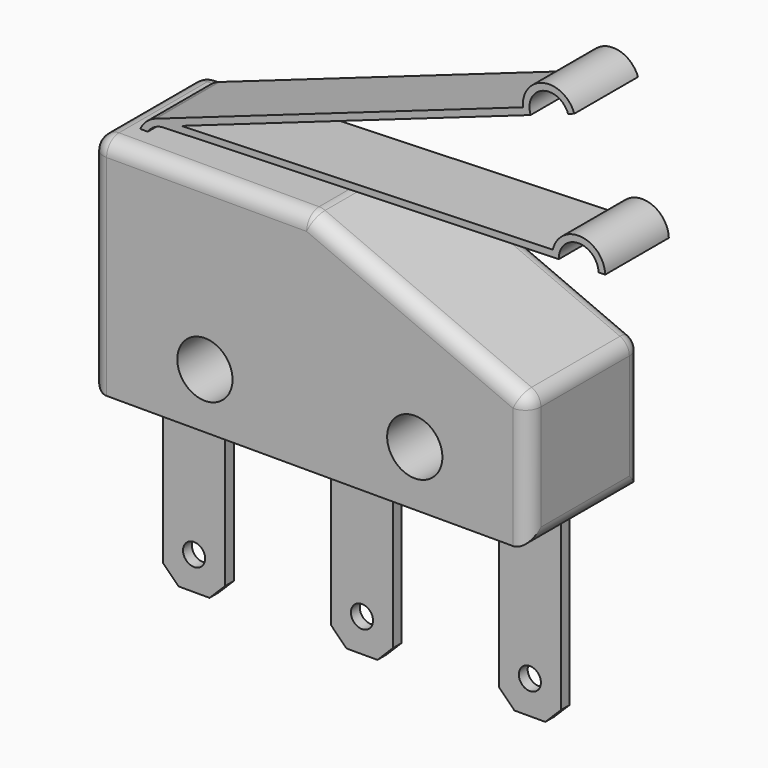
from build123d import *

# Parameters (mm, degrees)
F0_R     = 1.25
F1_DEPTH = 3.2
F2_R     = 0.7
F4_DEPTH = 1.8
F5_W     = 2.8
F5_H     = 9.0560415828
F5_R     = 0.5
F6_DEPTH = 0.25
F7_SIZE  = 0.7
F9_DEPTH = 3.6


with BuildPart() as f1:
    # F0 (on Front) → F1 (new body, symmetric)
    with BuildSketch(Plane.XZ):
        Polygon((-14.2658203304, 13.9623457611), (-24.1658203304, 13.9623457611), (-24.1658203304, 3.7623457611), (-4.3658203304, 3.7623457611), (-4.3658203304, 9.7123457611), align=None)
        with Locations((-19.0158203304, 6.2623457611)):
            Circle(F0_R, mode=Mode.SUBTRACT)
        with Locations((-9.5158203304, 6.2623457611)):
            Circle(F0_R, mode=Mode.SUBTRACT)
    extrude(amount=F1_DEPTH, both=True)

    # F2
    f2_edges = [f1.edges().sort_by_distance(p)[0] for p in [
        (-4.36582, 0, 9.712346),
        (-14.26582, 0, 13.962346),
        (-24.16582, 0, 13.962346),
        (-4.36582, 0, 3.762346),
        (-24.16582, 0, 3.762346),
        (-19.21582, -3.2, 13.962346),
        (-9.31582, -3.2, 11.837346),
        (-4.36582, -3.2, 6.737346),
        (-4.36582, 3.2, 6.737346),
        (-9.31582, 3.2, 11.837346),
        (-19.21582, 3.2, 13.962346),
        (-24.16582, -3.2, 8.862346),
        (-24.16582, 3.2, 8.862346),
    ]]
    fillet(f2_edges, radius=F2_R)

    # F3 (on Front) → F4 (join, symmetric)
    with BuildSketch(Plane.XZ):
        with BuildLine():
            Line((-4.3866957854, 15.2251207005), (-22.0158203304, 14.6623457611))
            ThreePointArc((-22.0158203304, 14.6623457611), (-23.165946247, 13.572328355), (-22.2182437598, 12.3023726214))
            Line((-22.2182437598, 12.3023726214), (-22.2182437598, 12.6108806694))
            ThreePointArc((-22.2182437598, 12.6108806694), (-22.8638430635, 13.5776541553), (-22.0062482997, 14.3624985062))
            Line((-22.0062482997, 14.3624985062), (-4.1153620949, 14.9336296691))
            ThreePointArc((-4.1153620949, 14.9336296691), (-3.2445364224, 15.8618875256), (-2.3162785659, 14.991061853))
            Line((-2.3162785659, 14.991061853), (-2.0164313111, 15.0006338837))
            ThreePointArc((-2.0164313111, 15.0006338837), (-3.1026751203, 16.1569997534), (-4.3866957854, 15.2251207005))
        make_face()
    extrude(amount=F4_DEPTH, both=True)

    # F5 (on Front) → F6 (join, symmetric)
    with BuildSketch(Plane.XZ):
        with Locations((-21.8658203304, -0.2096334475)):
            Rectangle(F5_W, F5_H)
        with Locations((-21.8658203304, -3.2376542389)):
            Circle(F5_R, mode=Mode.SUBTRACT)
        with Locations((-14.2658203304, -0.2096334475)):
            Rectangle(F5_W, F5_H)
        with Locations((-14.2658203304, -3.2376542389)):
            Circle(F5_R, mode=Mode.SUBTRACT)
        with Locations((-6.6658203304, -0.2096334475)):
            Rectangle(F5_W, F5_H)
        with Locations((-6.6658203304, -3.2376542389)):
            Circle(F5_R, mode=Mode.SUBTRACT)
    extrude(amount=F6_DEPTH, both=True)

    # F7
    f7_edges = [f1.edges().sort_by_distance(p)[0] for p in [
        (-12.86582, 0, -4.737654),
        (-15.66582, 0, -4.737654),
        (-20.46582, 0, -4.737654),
        (-23.26582, 0, -4.737654),
        (-5.26582, 0, -4.737654),
        (-8.06582, 0, -4.737654),
    ]]
    chamfer(f7_edges, length=F7_SIZE)

    # F8 (on face) → F9 (join, through all)
    with BuildSketch(Plane.XZ.offset(1.8)):
        with BuildLine():
            Line((-3.6950556462, 20.861555612), (-3.4121199517, 20.961292229))
            ThreePointArc((-3.4121199517, 20.961292229), (-4.7971701976, 21.7353058315), (-5.7393789628, 20.4587072715))
            Line((-5.7393789628, 20.4587072715), (-22.3494407238, 14.6035557305))
            Line((-22.3494407238, 14.6035557305), (-22.3988404472, 14.5861420164))
            ThreePointArc((-22.3988404472, 14.5861420164), (-23.1509491325, 13.2564048538), (-21.9777702725, 12.2778754681))
            Line((-21.9777702725, 12.2778754681), (-21.9777702725, 12.5778754681))
            ThreePointArc((-21.9777702725, 12.5778754681), (-22.8575253326, 13.319893669), (-22.2744995865, 14.3121844306))
            Line((-22.2744995865, 14.3121844306), (-5.3926698134, 20.2631359101))
            ThreePointArc((-5.3926698134, 20.2631359101), (-4.8430725807, 21.4111528446), (-3.6950556462, 20.861555612))
        make_face()
        with BuildLine():
            Line((-22.3988404472, 14.5861420164), (-22.3494407238, 14.6035557305))
            ThreePointArc((-22.3494407238, 14.6035557305), (-22.3742362034, 14.5951201251), (-22.3988404472, 14.5861420164))
        make_face()
    extrude(amount=-F9_DEPTH)


solid = f1.part
